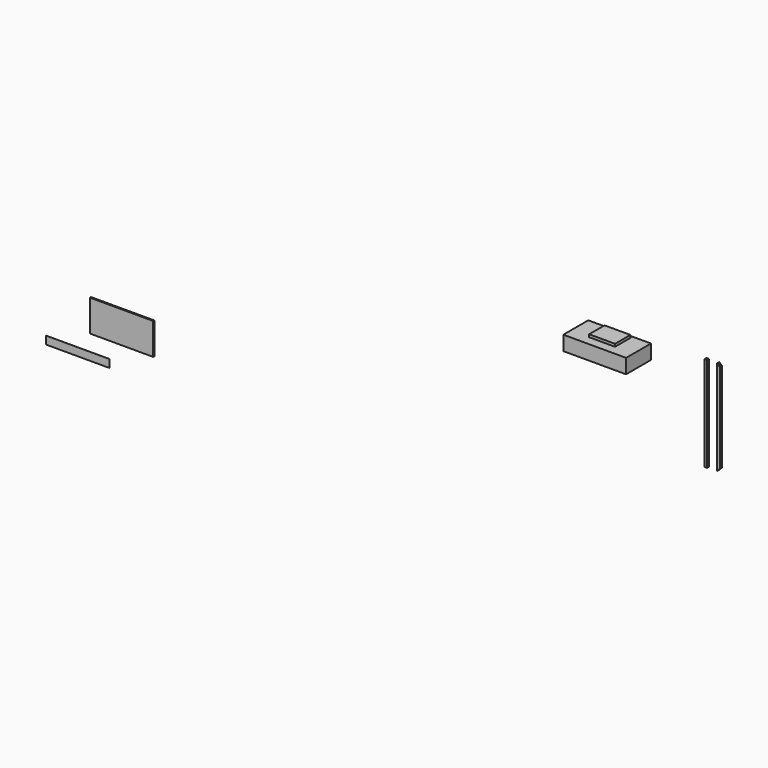
from build123d import *

# Parameters (mm, degrees)
F0_W      = 1209.675
F0_H      = 600.075
F1_DEPTH  = 279.4
F2_W      = 498.475
F2_H      = 371.475
F3_DEPTH  = 50.8
F4_W      = 50.8
F4_H      = 50.8
F4_W_2    = 46.5836
F4_H_2    = 46.5836
F5_DEPTH  = 1828.8
F6_W      = 50.8
F6_H      = 50.8
F6_W_2    = 46.5836
F6_H_2    = 46.5836
F7_DEPTH  = 1828.8
F9_DEPTH  = 50.801
F10_W     = 1219.2
F10_H     = 609.6
F11_DEPTH = 25.4
F12_W     = 1219.2
F12_H     = 152.4
F13_DEPTH = 0.889


with BuildPart() as f1:
    # F0 (on Top) → F1 (new body)
    with BuildSketch(Plane.XY):
        with Locations((2997.293917, 3174.282193)):
            Rectangle(F0_W, F0_H)
    extrude(amount=F1_DEPTH)

    # F2 (on face) → F3 (join)
    with BuildSketch(Plane.XY.offset(279.4)):
        with Locations((2997.293917, 3237.782193)):
            Rectangle(F2_W, F2_H)
    extrude(amount=F3_DEPTH)


with BuildPart() as f5:
    # F4 (on Top) → F5 (new body)
    with BuildSketch(Plane.XY):
        with Locations((4240.657888, 4022.32898)):
            Rectangle(F4_W, F4_H)
        with Locations((4240.657888, 4022.32898)):
            Rectangle(F4_W_2, F4_H_2, mode=Mode.SUBTRACT)
    extrude(amount=-F5_DEPTH)


with BuildPart() as f7:
    # F6 (on Top) → F7 (new body)
    with BuildSketch(Plane.XY):
        with Locations((4471.764326, 4039.688429)):
            Rectangle(F6_W, F6_H)
        with Locations((4471.764326, 4039.688429)):
            Rectangle(F6_W_2, F6_H_2, mode=Mode.SUBTRACT)
    extrude(amount=-F7_DEPTH)

    # F8 (on face) → F9 (cut, through all)
    with BuildSketch(Plane.XZ.offset(-4014.288429)):
        Polygon((4497.164326, 0), (4446.364326, 0), (4497.164326, -50.8), align=None)
        Polygon((4497.164326, -1778), (4446.364326, -1828.8), (4497.164326, -1828.8), align=None)
    extrude(amount=-F9_DEPTH, mode=Mode.SUBTRACT)


with BuildPart() as f11:
    # F10 (on Front) → F11 (new body)
    with BuildSketch(Plane.XZ):
        with Locations((-3803.47707, -431.553446)):
            Rectangle(F10_W, F10_H)
    extrude(amount=F11_DEPTH)


with BuildPart() as f13:
    # F12 (on Front) → F13 (new body)
    with BuildSketch(Plane.XZ):
        with Locations((-4669.756493, -1138.826966)):
            Rectangle(F12_W, F12_H)
    extrude(amount=F13_DEPTH)


solid = Compound([f1.part, f5.part, f7.part, f11.part, f13.part])
